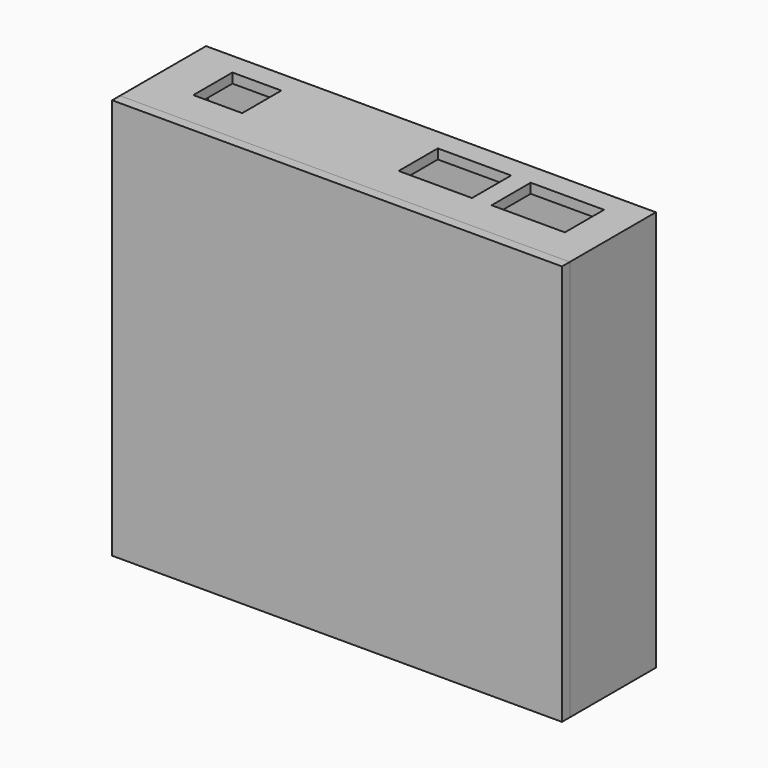
from build123d import *

# Parameters (mm, degrees)
F0_W      = 92
F0_H      = 82
F1_DEPTH  = 2
F2_W      = 92
F2_H      = 82
F2_W_2    = 88
F2_H_2    = 78
F3_DEPTH  = 20
F4_W      = 15
F4_H      = 10
F4_W_2    = 10
F5_DEPTH  = 95
F4_W_3    = 5
F6_DEPTH  = 25
F7_R      = 1.25
F8_DEPTH  = 5
F9_DEPTH  = 25
F10_W     = 92
F10_H     = 82
F11_DEPTH = 2
F12_W     = 87.9
F12_H     = 77.9
F12_W_2   = 83.9
F12_H_2   = 73.9
F13_DEPTH = 5


with BuildPart() as f1:
    # F0 (on Front) → F1 (new body)
    with BuildSketch(Plane.XZ):
        with Locations((-8.958335, 65.478207)):
            Rectangle(F0_W, F0_H)
    extrude(amount=-F1_DEPTH)

    # F2 (on face) → F3 (join)
    with BuildSketch(Plane.XZ):
        with Locations((-8.958335, 65.478207)):
            Rectangle(F2_W, F2_H)
        with Locations((-8.958335, 65.478207)):
            Rectangle(F2_W_2, F2_H_2, mode=Mode.SUBTRACT)
    extrude(amount=F3_DEPTH)

    # F4 (on face) → F5 (cut)
    with BuildSketch(Plane(origin=(0, 0, 24.478207), x_dir=(1, 0, 0), z_dir=(0, 0, -1))):
        with Locations((22.541665, 7.5)):
            Rectangle(F4_W, F4_H)
        with Locations((3.541665, 7.5)):
            Rectangle(F4_W, F4_H)
        with Locations((-40.958335, 7.5)):
            Rectangle(F4_W_2, F4_H)
    extrude(amount=-F5_DEPTH, mode=Mode.SUBTRACT)

    # F4 (on face) → F6 (cut)
    with BuildSketch(Plane(origin=(0, 0, 24.478207), x_dir=(1, 0, 0), z_dir=(0, 0, -1))):
        with Locations((22.541665, 7.5)):
            Rectangle(F4_W, F4_H)
        with Locations((3.541665, 7.5)):
            Rectangle(F4_W, F4_H)
        with Locations((-40.958335, 7.5)):
            Rectangle(F4_W_2, F4_H)
        with Locations((-33.458335, 7.5)):
            Rectangle(F4_W_3, F4_H)
    extrude(amount=-F6_DEPTH, mode=Mode.SUBTRACT)

    # F7 (on face) → F8 (join)
    with BuildSketch(Plane.XZ):
        with Locations((-50.708335, 28.728207)):
            Circle(F7_R)
        with Locations((32.791665, 102.228207)):
            Circle(F7_R)
    extrude(amount=F8_DEPTH)

    # F7 (on face) → F9 (cut)
    with BuildSketch(Plane.XZ):
        with Locations((32.791665, 28.728207)):
            Circle(F7_R)
        with Locations((-50.708335, 102.228207)):
            Circle(F7_R)
    extrude(amount=-F9_DEPTH, mode=Mode.SUBTRACT)


with BuildPart() as f11:
    # F10 (on face) → F11 (new body)
    with BuildSketch(Plane.XZ.offset(20)):
        with Locations((-8.958335, 65.478207)):
            Rectangle(F10_W, F10_H)
    extrude(amount=F11_DEPTH)

    # F12 (on face) → F13 (join)
    with BuildSketch(Plane.XZ.offset(22)):
        with Locations((-8.958335, 65.478207)):
            Rectangle(F12_W, F12_H)
        with Locations((-8.958335, 65.478207)):
            Rectangle(F12_W_2, F12_H_2, mode=Mode.SUBTRACT)
    extrude(amount=-F13_DEPTH)


solid = Compound([f1.part, f11.part])
